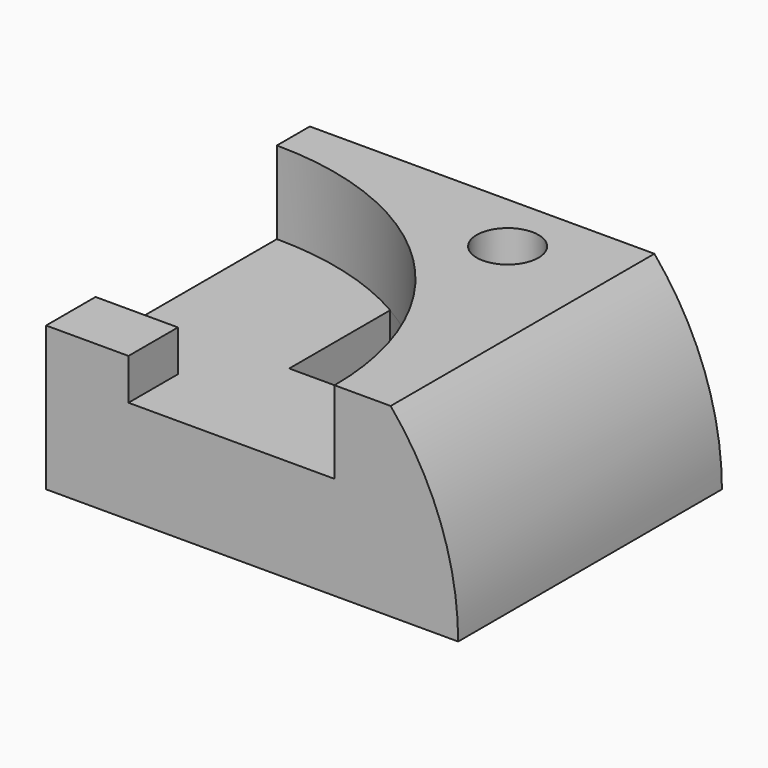
from build123d import *

# Parameters (mm, degrees)
F0_W      = 100
F0_H      = 80
F1_DEPTH  = 45
F2_R      = 70
F3_DEPTH  = 20
F5_DEPTH  = 25.001
F6_W      = 20
F6_H      = 15
F7_DEPTH  = 10
F8_R      = 7.5
F9_DEPTH  = 30
F12_DEPTH = 80.001


with BuildPart() as f1:
    # F0 (on Top) → F1 (new body)
    with BuildSketch(Plane.XY):
        with Locations((50, 40)):
            Rectangle(F0_W, F0_H)
    extrude(amount=F1_DEPTH)

    # F2 (on face) → F3 (cut)
    with BuildSketch(Plane.XY.offset(45)):
        Circle(F2_R)
    extrude(amount=-F3_DEPTH, mode=Mode.SUBTRACT)

    # F4 (on face) → F5 (cut, through all)
    with BuildSketch(Plane.XY.offset(25)):
        with BuildLine():
            ThreePointArc((63.245553, 30), (51.453576, 47.460821), (35, 60.621778))
            Line((35, 60.621778), (35, 30))
            Line((35, 30), (63.245553, 30))
        make_face()
    extrude(amount=-F5_DEPTH, mode=Mode.SUBTRACT)

    # F6 (on face) → F7 (join)
    with BuildSketch(Plane.XY.offset(25)):
        with Locations((10, 7.5)):
            Rectangle(F6_W, F6_H)
    extrude(amount=F7_DEPTH)

    # F8 (on face) → F9 (cut)
    with BuildSketch(Plane.XY.offset(45)):
        with Locations((60, 65)):
            Circle(F8_R)
    extrude(amount=-F9_DEPTH, mode=Mode.SUBTRACT)

    # F11 (on face) → F12 (cut, through all)
    with BuildSketch(Plane.XZ):
        with BuildLine():
            ThreePointArc((83.619026, 45), (95.777397, 23.944395), (100, 0))
            Line((100, 0), (100, 45))
            Line((100, 45), (83.619026, 45))
        make_face()
    extrude(amount=-F12_DEPTH, mode=Mode.SUBTRACT)


solid = f1.part
